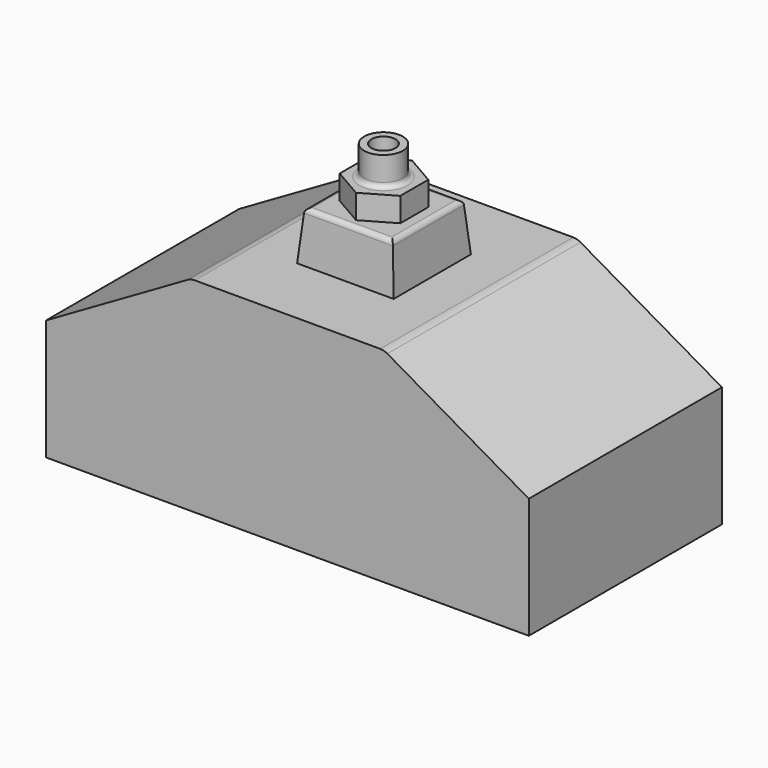
from build123d import *

# Parameters (mm, degrees)
F1_DEPTH = 25
F2_W     = 20
F2_H     = 20
F3_DEPTH = 10
F3_TAPER = 5
F5_DEPTH = 5
F6_R     = 4
F6_R_2   = 2.5
F7_DEPTH = 6
F8_DEPTH = 45
F9_R     = 1
F10_R    = 3


with BuildPart() as f1:
    # F0 (on Front) → F1 (new body, symmetric)
    with BuildSketch(Plane.XZ):
        Polygon((-50, 25), (-50, 0), (50, 0), (50, 25), (20, 42.3205080757), (-20, 42.3205080757), align=None)
    extrude(amount=F1_DEPTH, both=True)

    # F2 (on face) → F3 (join)
    with BuildSketch(Plane.XY.offset(42.3205080757)):
        Rectangle(F2_W, F2_H)
    extrude(amount=F3_DEPTH, taper=F3_TAPER)

    # F4 (on face) → F5 (join)
    with BuildSketch(Plane.XY.offset(52.3205080757)):
        Polygon((-6.2786841774, -3.625), (0, -7.25), (6.2786841774, -3.625), (6.2786841774, 3.625), (0, 7.25), (-6.2786841774, 3.625), align=None)
    extrude(amount=F5_DEPTH)

    # F6 (on face) → F7 (join)
    with BuildSketch(Plane.XY.offset(57.3205080757)):
        with Locations((-0.0816522495, -0.0350918563)):
            Circle(F6_R)
        with Locations((-0.0816522495, -0.0350918563)):
            Circle(F6_R_2, mode=Mode.SUBTRACT)
    extrude(amount=F7_DEPTH)

    # F8 (cut): a face of the model
    f8_faces = [f1.faces().sort_by_distance(p)[0] for p in [
        (-0.0816522495, -0.0350918563, 57.3205080757),
    ]]
    extrude(f8_faces, amount=-F8_DEPTH, mode=Mode.SUBTRACT)

    # F9
    f9_edges = [f1.edges().sort_by_distance(p)[0] for p in [
        (0, -9.125113, 52.320508),
        (-9.125113, 0, 52.320508),
        (9.125113, 0, 52.320508),
        (0, 9.125113, 52.320508),
        (-4.081652, -0.035092, 57.320508),
    ]]
    fillet(f9_edges, radius=F9_R)

    # F10
    f10_edges = [f1.edges().sort_by_distance(p)[0] for p in [
        (-20, 0, 42.320508),
        (20, 0, 42.320508),
    ]]
    fillet(f10_edges, radius=F10_R)


solid = f1.part
